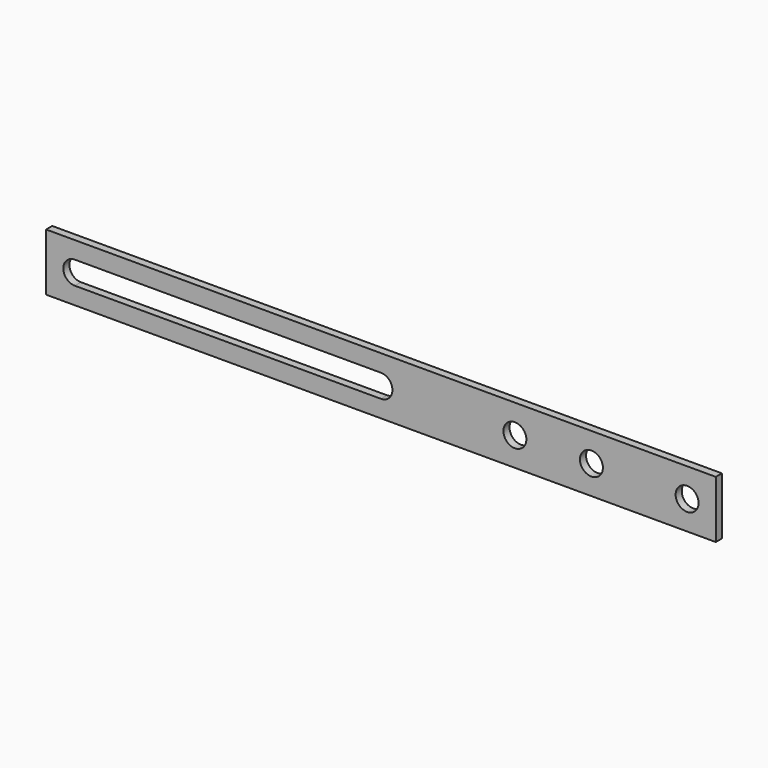
from build123d import *

# Parameters (mm, degrees)
F0_W     = 175
F0_H     = 15
F0_R     = 3
F1_DEPTH = 1
F2_R     = 3
F3_DEPTH = 2.001
F4_R     = 3
F5_DEPTH = 2.001


with BuildPart() as f1:
    # F0 (on Front) → F1 (new body, symmetric)
    with BuildSketch(Plane.XZ):
        with Locations((80, 0)):
            Rectangle(F0_W, F0_H)
        with BuildLine():
            ThreePointArc((0, -3), (-3, 0), (0, 3))
            Line((0, 3), (80, 3))
            ThreePointArc((80, 3), (83, 0), (80, -3))
            Line((80, -3), (0, -3))
        make_face(mode=Mode.SUBTRACT)
        with Locations((135, 0)):
            Circle(F0_R, mode=Mode.SUBTRACT)
    extrude(amount=F1_DEPTH, both=True)

    # F2 (on face) → F3 (cut, through all)
    with BuildSketch(Plane.XZ.offset(1)):
        with Locations((160, 0)):
            Circle(F2_R)
    extrude(amount=-F3_DEPTH, mode=Mode.SUBTRACT)

    # F4 (on face) → F5 (cut, through all)
    with BuildSketch(Plane.XZ.offset(1)):
        with Locations((115, 0)):
            Circle(F4_R)
    extrude(amount=-F5_DEPTH, mode=Mode.SUBTRACT)


solid = f1.part
